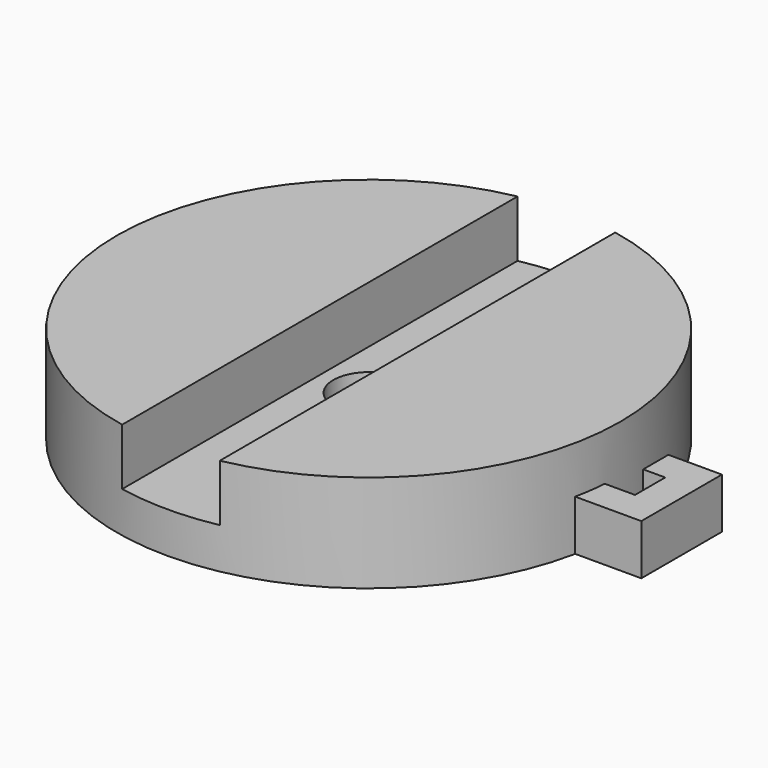
from build123d import *

# Parameters (mm, degrees)
F0_R     = 20
F1_DEPTH = 7.75
F2_W     = 7.75
F2_H     = 40
F3_DEPTH = 4.5
F5_DEPTH = 4
F6_R     = 2.8
F7_DEPTH = 3.251


with BuildPart() as f1:
    # F0 (on Top) → F1 (new body)
    with BuildSketch(Plane.XY):
        Circle(F0_R)
    extrude(amount=F1_DEPTH)

    # F2 (on face) → F3 (cut)
    with BuildSketch(Plane.XY.offset(7.75)):
        Rectangle(F2_W, F2_H)
    extrude(amount=-F3_DEPTH, mode=Mode.SUBTRACT)

    # F4 (on Top) → F5 (join)
    with BuildSketch(Plane.XY):
        Polygon((22.345918, -1.5), (18.466113, -1.5), (19.595918, -4), (24.845918, -4), (24.845918, 4), (20.595918, 4), (20.595918, 1.5), (22.345918, 1.5), align=None)
    extrude(amount=F5_DEPTH)

    # F6 (on face) → F7 (cut, through all)
    with BuildSketch(Plane.XY.offset(3.25)):
        Circle(F6_R)
    extrude(amount=-F7_DEPTH, mode=Mode.SUBTRACT)


solid = f1.part
